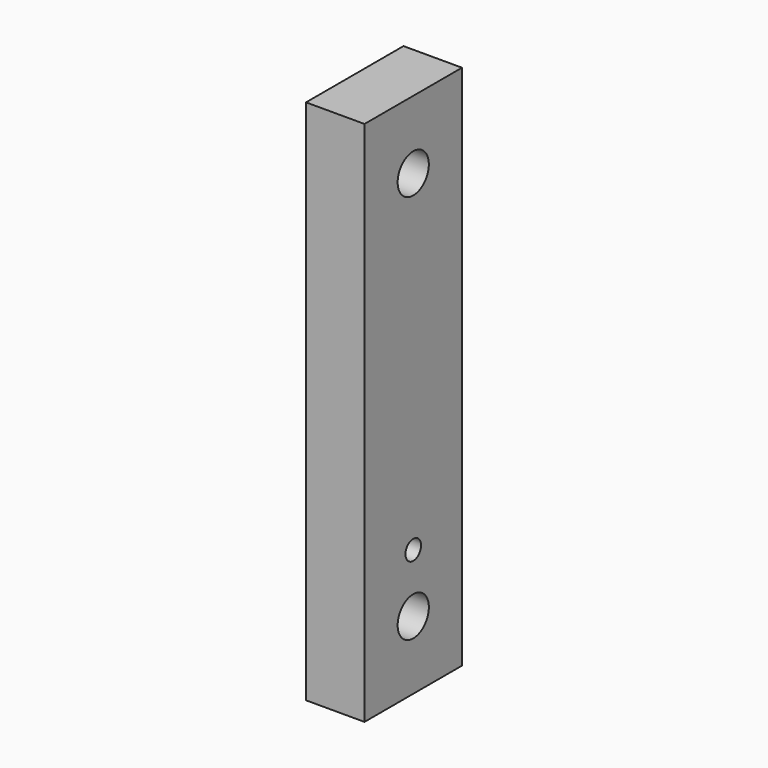
from build123d import *

# Parameters (mm, degrees)
F0_W     = 25
F0_H     = 108
F1_DEPTH = 12
F2_D     = 8
F3_D     = 4


with BuildPart() as f1:
    # F0 (on Right) → F1 (new body)
    with BuildSketch(Plane.YZ):
        Rectangle(F0_W, F0_H)
    extrude(amount=F1_DEPTH)

    # F2 (through all)
    with Locations(Plane(origin=(0, 0, 0), x_dir=(0, 1, 0), z_dir=(-1, 0, 0))):
        with Locations((0, -40), (0, 40)):
            Hole(F2_D / 2)

    # F3 (through all)
    with Locations(Plane(origin=(0, 0, 0), x_dir=(0, 1, 0), z_dir=(-1, 0, 0))):
        with Locations((0, 28)):
            Hole(F3_D / 2)


solid = f1.part
